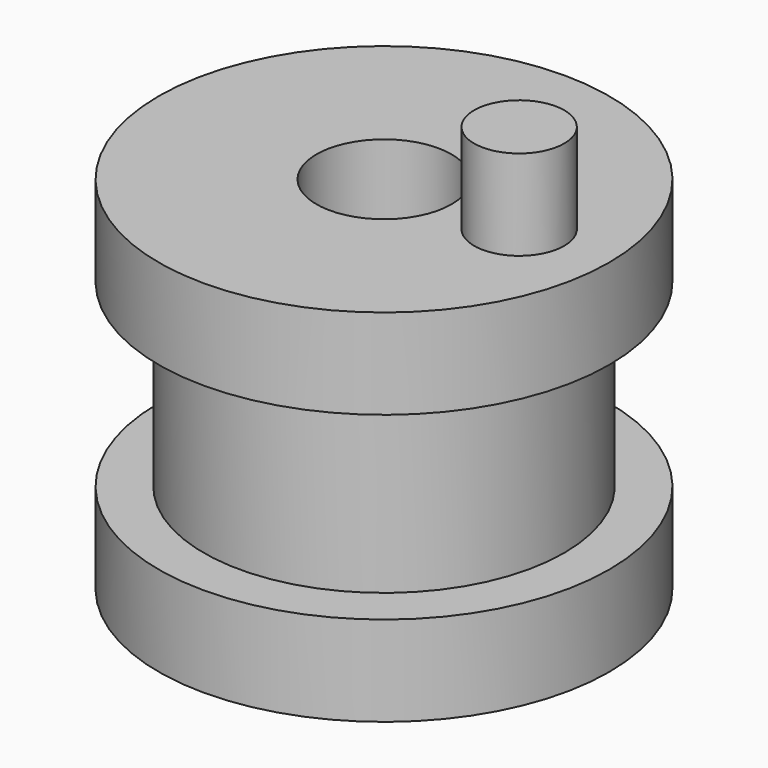
from build123d import *

# Parameters (mm, degrees)
F0_W     = 7.9375
F0_H     = 12.7
F2_R     = 3.175
F3_DEPTH = 6.35


with BuildPart() as f1:
    # F0 (on Front) → F1 (revolve)
    with BuildSketch(Plane.XZ):
        Polygon((4.7625, 12.7), (4.7625, 6.35), (12.7, 6.35), (15.875, 6.35), (15.875, 12.7), align=None)
        with Locations((8.73125, 0)):
            Rectangle(F0_W, F0_H)
        Polygon((12.7, -6.35), (4.7625, -6.35), (4.7625, -12.7), (15.875, -12.7), (15.875, -6.35), align=None)
    revolve(axis=Axis((0, 0, 0), (0, 0, -1)))

    # F2 (on face) → F3 (join)
    with BuildSketch(Plane.XY.offset(12.7)):
        with Locations((9.525, 0)):
            Circle(F2_R)
    extrude(amount=F3_DEPTH)


solid = f1.part
